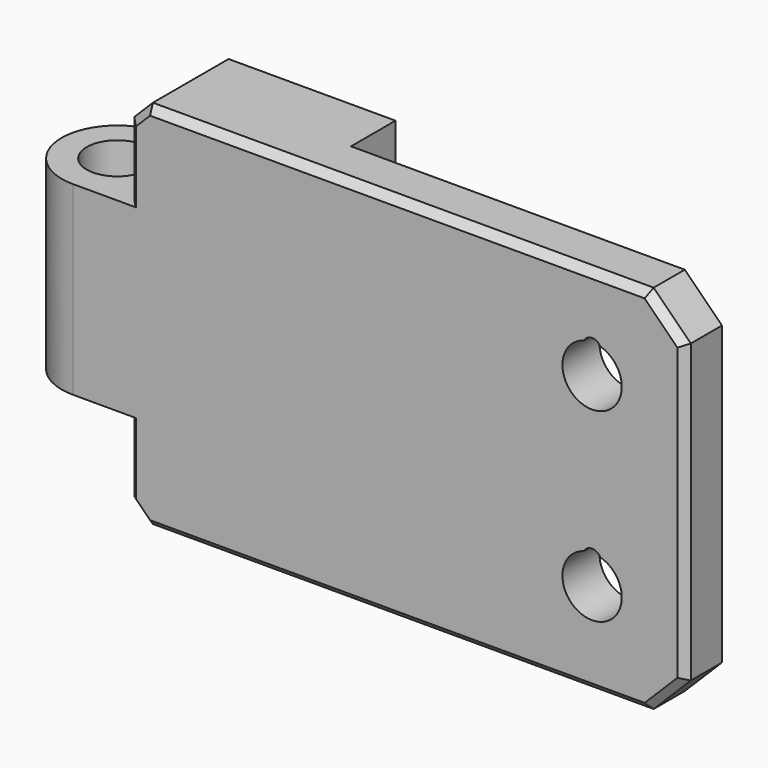
from build123d import *

# Parameters (mm, degrees)
BOX027_W          = 10
BOX027_H          = 3
BOX027_DEPTH      = 20
CHAMFER013_SIZE   = 1
CYLINDER003_R     = 0.5
CYLINDER003_DEPTH = 10
CYLINDER002_R     = 0.5
CYLINDER002_DEPTH = 10
CYLINDER005_R     = 1.6
CYLINDER005_DEPTH = 10
CYLINDER004_R     = 1.6
CYLINDER004_DEPTH = 10
CYLINDER001_R     = 1.65
CYLINDER001_DEPTH = 10
BOX006_W          = 30
BOX006_H          = 3
BOX006_DEPTH      = 20
BOX007_W          = 4
BOX007_H          = 3
BOX007_DEPTH      = 10
CYLINDER_R        = 3
CYLINDER_DEPTH    = 10
BOX005_W          = 30
BOX005_H          = 3
BOX005_DEPTH      = 20
CHAMFER_SIZE      = 1
CHAMFER001_SIZE   = 2
CHAMFER002_SIZE   = 0.4


with BuildPart() as chamfer013:
    # Box027 → Box027 (new body)
    with BuildSketch(Plane(origin=(-38, -3.5, 15), x_dir=(1, 0, 0), z_dir=(0, 0, 1))):
        with Locations((5, 1.5)):
            Rectangle(BOX027_W, BOX027_H)
    extrude(amount=BOX027_DEPTH)

    # Chamfer013
    chamfer013_edges = [chamfer013.edges().sort_by_distance(p)[0] for p in [
        (-38, -2, 35),
        (-38, -2, 15),
    ]]
    chamfer(chamfer013_edges, length=CHAMFER013_SIZE)


with BuildPart() as cylinder003:
    # Cylinder003 → Cylinder003 (new body)
    with BuildSketch(Plane(origin=(25, 0, 15), x_dir=(1, 0, 0), z_dir=(0, -1, 0))):
        Circle(CYLINDER003_R)
    extrude(amount=CYLINDER003_DEPTH)


with BuildPart() as fusion002:
    # Cylinder002 → Cylinder002 (new body)
    with BuildSketch(Plane(origin=(25, 0, 5), x_dir=(1, 0, 0), z_dir=(0, -1, 0))):
        Circle(CYLINDER002_R)
    extrude(amount=CYLINDER002_DEPTH)

    # Fusion002: union Cylinder003
    add(cylinder003.part)


with BuildPart() as fusion002_1:
    # Fusion002 placement: moved
    add(fusion002.part.moved(Location((0, 0, 1.3))))


with BuildPart() as cylinder005:
    # Cylinder005 → Cylinder005 (new body)
    with BuildSketch(Plane(origin=(25, 0, 5), x_dir=(1, 0, 0), z_dir=(0, -1, 0))):
        Circle(CYLINDER005_R)
    extrude(amount=CYLINDER005_DEPTH)


with BuildPart() as fusion001:
    # Cylinder004 → Cylinder004 (new body)
    with BuildSketch(Plane(origin=(25, 0, 15), x_dir=(1, 0, 0), z_dir=(0, -1, 0))):
        Circle(CYLINDER004_R)
    extrude(amount=CYLINDER004_DEPTH)

    # Fusion001: union Cylinder005
    add(cylinder005.part)


with BuildPart() as cylinder001:
    # Cylinder001 → Cylinder001 (new body)
    with BuildSketch(Plane(origin=(-3, -3, 5), x_dir=(1, 0, 0), z_dir=(0, 0, 1))):
        Circle(CYLINDER001_R)
    extrude(amount=CYLINDER001_DEPTH)


with BuildPart() as cube004:
    # Box006 → Box006 (new body)
    with BuildSketch(Plane(origin=(0, -3.5, 0), x_dir=(1, 0, 0), z_dir=(0, 0, 1))):
        with Locations((15, 1.5)):
            Rectangle(BOX006_W, BOX006_H)
    extrude(amount=BOX006_DEPTH)


with BuildPart() as cube005:
    # Box007 → Box007 (new body)
    with BuildSketch(Plane(origin=(-3, -6, 5), x_dir=(1, 0, 0), z_dir=(0, 0, 1))):
        with Locations((2, 1.5)):
            Rectangle(BOX007_W, BOX007_H)
    extrude(amount=BOX007_DEPTH)


with BuildPart() as cylinder:
    # Cylinder → Cylinder (new body)
    with BuildSketch(Plane(origin=(-3, -3, 5), x_dir=(1, 0, 0), z_dir=(0, 0, 1))):
        Circle(CYLINDER_R)
    extrude(amount=CYLINDER_DEPTH)


with BuildPart() as arm_r2:
    # Box005 → Box005 (new body)
    with BuildSketch(Plane(origin=(0, -6, 0), x_dir=(1, 0, 0), z_dir=(0, 0, 1))):
        with Locations((15, 1.5)):
            Rectangle(BOX005_W, BOX005_H)
    extrude(amount=BOX005_DEPTH)

    # Chamfer
    chamfer_edges = [arm_r2.edges().sort_by_distance(p)[0] for p in [
        (0, -4.5, 20),
        (0, -4.5, 0),
    ]]
    chamfer(chamfer_edges, length=CHAMFER_SIZE)

    # Chamfer001
    chamfer001_edges = [arm_r2.edges().sort_by_distance(p)[0] for p in [
        (30, -4.5, 0),
        (30, -4.5, 20),
    ]]
    chamfer(chamfer001_edges, length=CHAMFER001_SIZE)

    # Chamfer002
    chamfer002_edges = [arm_r2.edges().sort_by_distance(p)[0] for p in [
        (14.5, -6, 0),
        (29, -6, 1),
        (0.5, -6, 0.5),
        (30, -6, 10),
        (0, -6, 10),
        (29, -6, 19),
        (0.5, -6, 19.5),
        (14.5, -6, 20),
    ]]
    chamfer(chamfer002_edges, length=CHAMFER002_SIZE)

    # Fusion: union Cube005, Cylinder
    add(cube005.part)
    add(cylinder.part)

    # Cut: cut Cube004
    add(cube004.part, mode=Mode.SUBTRACT)

    # Cut001: cut Cylinder001
    add(cylinder001.part, mode=Mode.SUBTRACT)

    # Cut002: cut Fusion001
    add(fusion001.part, mode=Mode.SUBTRACT)

    # Cut003: cut Fusion002
    add(fusion002_1.part, mode=Mode.SUBTRACT)


with BuildPart() as arm_r2_1:
    # Cut003 placement: moved
    add(arm_r2.part.moved(Location((-38, 0, 15))))

    # Fusion007007: union Chamfer013
    add(chamfer013.part)


solid = arm_r2_1.part
